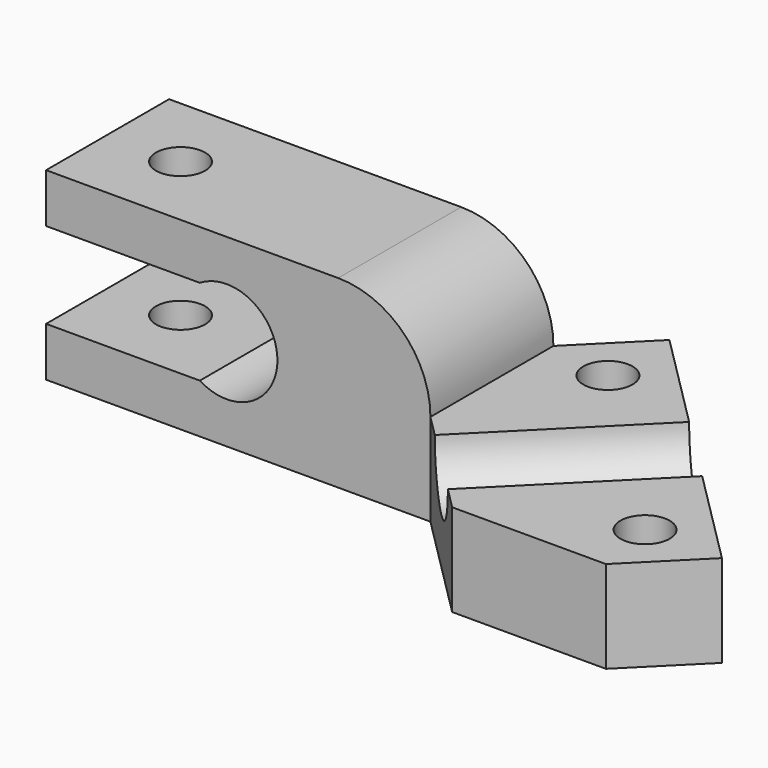
from build123d import *

# Parameters (mm, degrees)
PAD_DEPTH            = 10
SKETCH_R             = 1.6
PAD001_DEPTH         = 6
SKETCH004_R          = 3
POCKET_DEPTH         = 27.372693
SKETCH005_R          = 1.6
POCKET001_DEPTH      = 6.001
POCKET001_DEPTH_BACK = -6.001


with BuildPart() as part:
    # Sketch003 → Pad (new body)
    with BuildSketch(Plane.XZ):
        with BuildLine():
            Line((13.253575, -6), (-11.746425, -6))
            Line((-11.746425, -2.8), (-11.746425, -6))
            Line((-1.746425, -2.8), (-11.746425, -2.8))
            ThreePointArc((-1.746425, -2.8), (3.3, 0), (-1.746425, 2.8))
            Line((-1.746425, 2.8), (-11.746425, 2.8))
            Line((-11.746425, 2.8), (-11.746425, 6))
            Line((7.253575, 6), (-11.746425, 6))
            ThreePointArc((13.253575, 0), (11.496216, 4.242641), (7.253575, 6))
            Line((13.253575, 0), (13.253575, -6))
        make_face()
    extrude(amount=PAD_DEPTH)

    # Sketch → Pad001 (join)
    with BuildSketch(Plane.XY):
        Polygon((13.253575, -10), (20.324643, -17.071068), (30.324643, -17.071068), (34.517031, -12.87868), (17.445963, 4.192388), (13.253575, 0), align=None)
        with Locations((17.445963, -0.807612)):
            Circle(SKETCH_R, mode=Mode.SUBTRACT)
        with Locations((29.517031, -12.87868)):
            Circle(SKETCH_R, mode=Mode.SUBTRACT)
    extrude(amount=-PAD001_DEPTH)

    # Sketch004 (on DatumPlane) → Pocket (cut, through all)
    with BuildSketch(Plane(origin=(0, 0, 3.5), x_dir=(0, 0, -1), z_dir=(-0.707107, -0.707107, 0))):
        with Locations((3.5, 21.442761)):
            Circle(SKETCH004_R)
    extrude(amount=-POCKET_DEPTH, mode=Mode.SUBTRACT)

    # Sketch005 → Pocket001 (cut, two sides)
    with BuildSketch(Plane.XY) as pocket001_sk:
        with Locations((-7, -5)):
            Circle(SKETCH005_R)
    extrude(amount=-POCKET001_DEPTH, mode=Mode.SUBTRACT)
    extrude(pocket001_sk.sketch, amount=-POCKET001_DEPTH_BACK, mode=Mode.SUBTRACT)


solid = part.part
